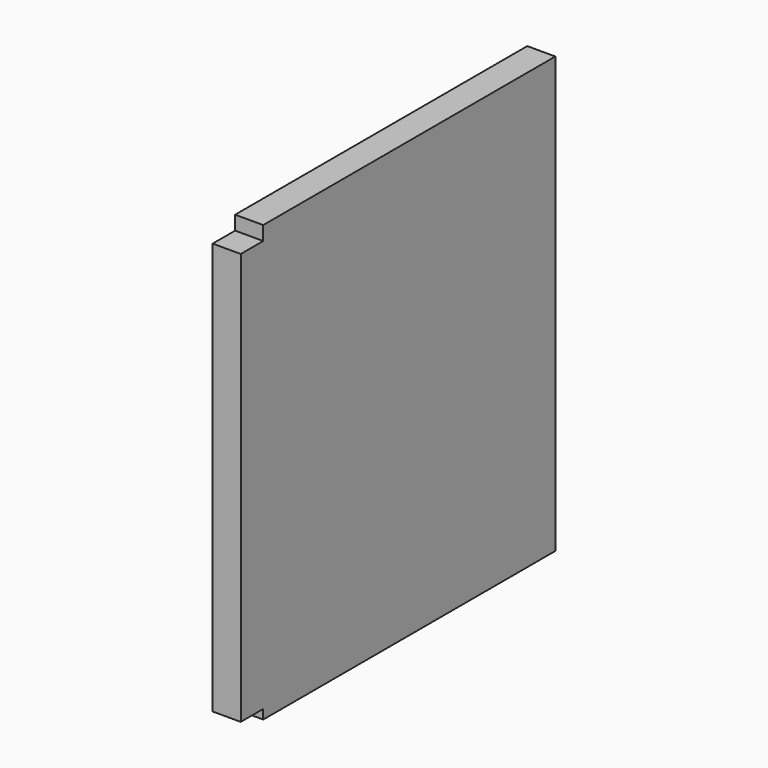
from build123d import *

# Parameters (mm, degrees)
F0_W     = 19.05
F0_H     = 295.275
F1_DEPTH = 266.7
F2_W     = 19.05
F2_H     = 9.525
F2_H_2   = 6.35
F3_DEPTH = 25.4


with BuildPart() as f1:
    # F0 (on Front) → F1 (new body)
    with BuildSketch(Plane.XZ):
        with Locations((9.525, 147.6375)):
            Rectangle(F0_W, F0_H)
    extrude(amount=F1_DEPTH)

    # F2 (on face) → F3 (cut)
    with BuildSketch(Plane.YZ.offset(19.05)):
        with Locations((-257.175, 290.5125)):
            Rectangle(F2_W, F2_H)
        with Locations((-257.175, 3.175)):
            Rectangle(F2_W, F2_H_2)
    extrude(amount=-F3_DEPTH, mode=Mode.SUBTRACT)


solid = f1.part
